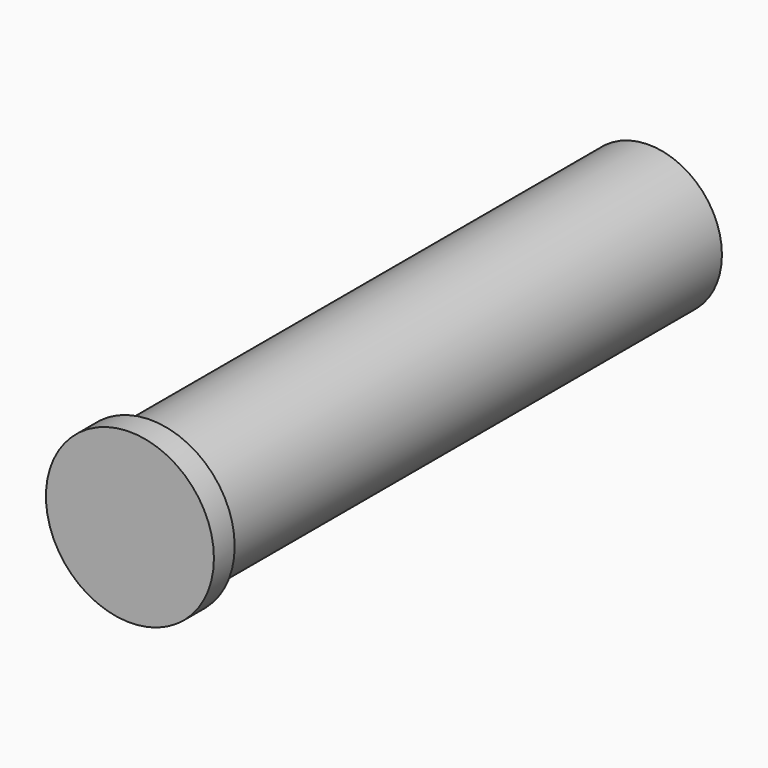
from build123d import *

# Parameters (mm, degrees)
F0_R     = 8.95817
F1_DEPTH = 13.716
F2_DEPTH = 76.2
F3_T     = -2.54
F4_R     = 10.281623
F5_DEPTH = 3.175


with BuildPart() as f1:
    # F0 (on Front) → F1 (new body)
    with BuildSketch(Plane.XZ):
        Circle(F0_R)
    extrude(amount=F1_DEPTH)

    # F0 (on Front) → F2 (join)
    with BuildSketch(Plane.XZ):
        Circle(F0_R)
    extrude(amount=F2_DEPTH)

    # F3
    f3_openings = [f1.faces().sort_by_distance(p)[0] for p in [
        (0, -76.2, 0),
    ]]
    offset(amount=F3_T, openings=f3_openings)

    # F4 (on face) → F5 (join)
    with BuildSketch(Plane.XZ.offset(76.2)):
        Circle(F4_R)
    extrude(amount=F5_DEPTH)


solid = f1.part
